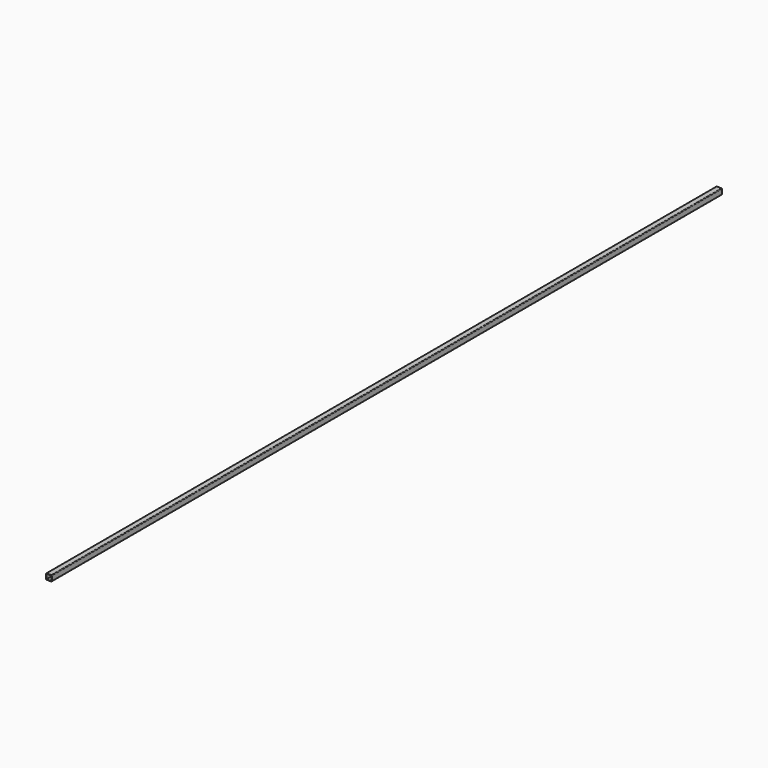
from build123d import *

# Parameters (mm, degrees)
F1_DEPTH = 5899


with BuildPart() as f1:
    # F0 (on Front) → F1 (new body)
    with BuildSketch(Plane.XZ):
        with BuildLine():
            ThreePointArc((20, 16), (18.828427, 18.828427), (16, 20))
            Line((16, 20), (-16, 20))
            ThreePointArc((-16, 20), (-18.828427, 18.828427), (-20, 16))
            Line((-20, 16), (-20, -16))
            ThreePointArc((-20, -16), (-18.828427, -18.828427), (-16, -20))
            Line((-16, -20), (16, -20))
            ThreePointArc((16, -20), (18.828427, -18.828427), (20, -16))
            Line((20, -16), (20, 16))
        make_face()
        with BuildLine():
            Line((-16, 17), (16, 17))
            ThreePointArc((16, 17), (16.707107, 16.707107), (17, 16))
            Line((17, 16), (17, -16))
            ThreePointArc((17, -16), (16.707107, -16.707107), (16, -17))
            Line((16, -17), (-16, -17))
            ThreePointArc((-16, -17), (-16.707107, -16.707107), (-17, -16))
            Line((-17, -16), (-17, 16))
            ThreePointArc((-17, 16), (-16.707107, 16.707107), (-16, 17))
        make_face(mode=Mode.SUBTRACT)
    extrude(amount=F1_DEPTH)


solid = f1.part
